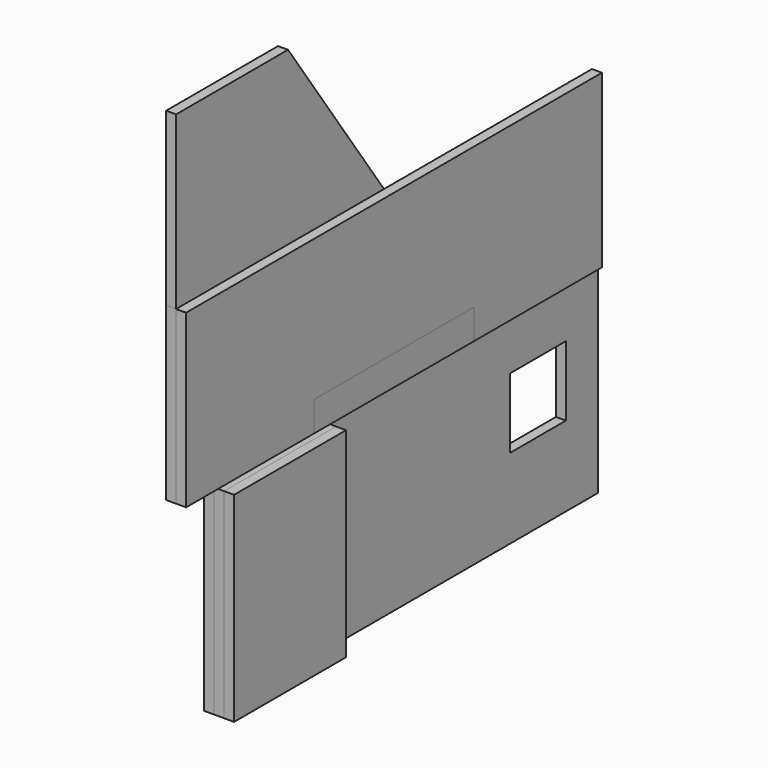
from build123d import *

# Parameters (mm, degrees)
F0_W      = 100
F0_H      = 100
F0_W_2    = 35
F0_H_2    = 35
F1_DEPTH  = 5
F2_W      = 2.5
F2_H      = 35
F3_DEPTH  = 5
F4_DEPTH  = 5
F5_W      = 240
F5_H      = 100
F5_W_2    = 35
F5_H_2    = 35
F6_DEPTH  = 5
F7_W      = 70
F7_H      = 100
F7_W_2    = 35
F7_H_2    = 35
F8_DEPTH  = 5
F9_W      = 70
F9_H      = 100
F10_DEPTH = 5
F11_W     = 260
F11_H     = 85.7106781187
F12_DEPTH = 2
F14_DEPTH = 5
F15_W     = 70
F15_H     = 85.7106781187
F16_DEPTH = 5


with BuildPart() as f1:
    # F0 (on Right) → F1 (new body)
    with BuildSketch(Plane.YZ):
        with Locations((-50, 50)):
            Rectangle(F0_W, F0_H)
        with Locations((-50, 57.5)):
            Rectangle(F0_W_2, F0_H_2, mode=Mode.SUBTRACT)
        Polygon((-100, 100), (0, 100), (-50, 150), align=None)
    extrude(amount=F1_DEPTH)


with BuildPart() as f3:
    # F2 (on face) → F3 (new body)
    with BuildSketch(Plane.YZ.offset(5)):
        Polygon((-100, 100), (-100, 0), (-65, 0), (-65, 40), (-67.5, 40), (-67.5, 75), (-65, 75), (-35, 75), (-32.5, 75), (-32.5, 40), (-35, 40), (-35, 0), (0, 0), (0, 100), (-50, 150), align=None)
        with Locations((-66.25, 57.5)):
            Rectangle(F2_W, F2_H)
        with Locations((-33.75, 57.5)):
            Rectangle(F2_W, F2_H)
    extrude(amount=F3_DEPTH)


with BuildPart() as f4:
    # F0 (on Right) → F4 (new body)
    with BuildSketch(Plane.YZ):
        with Locations((-50, 50)):
            Rectangle(F0_W, F0_H)
        with Locations((-50, 57.5)):
            Rectangle(F0_W_2, F0_H_2, mode=Mode.SUBTRACT)
        Polygon((-100, 100), (0, 100), (-50, 150), align=None)
    extrude(amount=F4_DEPTH)


with BuildPart() as f6:
    # F5 (on face) → F6 (new body)
    with BuildSketch(Plane.YZ.offset(10)):
        with Locations((-50, 50)):
            Rectangle(F5_W, F5_H)
        with Locations((-132.5, 57.5)):
            Rectangle(F5_W_2, F5_H_2, mode=Mode.SUBTRACT)
        with Locations((32.5, 57.5)):
            Rectangle(F5_W_2, F5_H_2, mode=Mode.SUBTRACT)
    extrude(amount=F6_DEPTH)


with BuildPart() as f8:
    # F7 (on face) → F8 (new body)
    with BuildSketch(Plane.YZ.offset(15)):
        with Locations((-135, 50)):
            Rectangle(F7_W, F7_H)
        with Locations((-132.5, 57.5)):
            Rectangle(F7_W_2, F7_H_2, mode=Mode.SUBTRACT)
    extrude(amount=F8_DEPTH)


with BuildPart() as f10:
    # F9 (on face) → F10 (new body)
    with BuildSketch(Plane.YZ.offset(20)):
        with Locations((-135, 50)):
            Rectangle(F9_W, F9_H)
    extrude(amount=F10_DEPTH)


with BuildPart() as f12:
    # F11 (on face) → F12 (new body)
    with BuildSketch(Plane.YZ.offset(15)):
        with Locations((-60, 142.8553390593)):
            Rectangle(F11_W, F11_H)
    extrude(amount=F12_DEPTH)


with BuildPart() as f14:
    # F13 (on face) → F14 (new body)
    with BuildSketch(Plane.YZ.offset(17)):
        Polygon((70, 185.7106781187), (-190, 185.7106781187), (-190, 100), (-110, 100), (-110, 115), (-10, 115), (-10, 100), (70, 100), align=None)
    extrude(amount=-F14_DEPTH)


with BuildPart() as f16:
    # F15 (on face) → F16 (new body)
    with BuildSketch(Plane(origin=(12, 0, 0), x_dir=(0, -1, 0), z_dir=(-1, 0, 0))):
        with Locations((155, 142.8553390593)):
            Rectangle(F15_W, F15_H)
        Polygon((120, 100), (120, 185.7106781187), (60, 185.7106781187), align=None)
    extrude(amount=F16_DEPTH)


with BuildPart() as f17_1:
    # F17: instance of F16
    add(f16.part.mirror(Plane(origin=(9.5, -125, 185.7106781187), x_dir=(1, 0, 0), z_dir=(0, 0, 1))))


solid = Compound([f1.part, f3.part, f4.part, f6.part, f8.part, f10.part, f12.part, f14.part, f16.part, f17_1.part])
